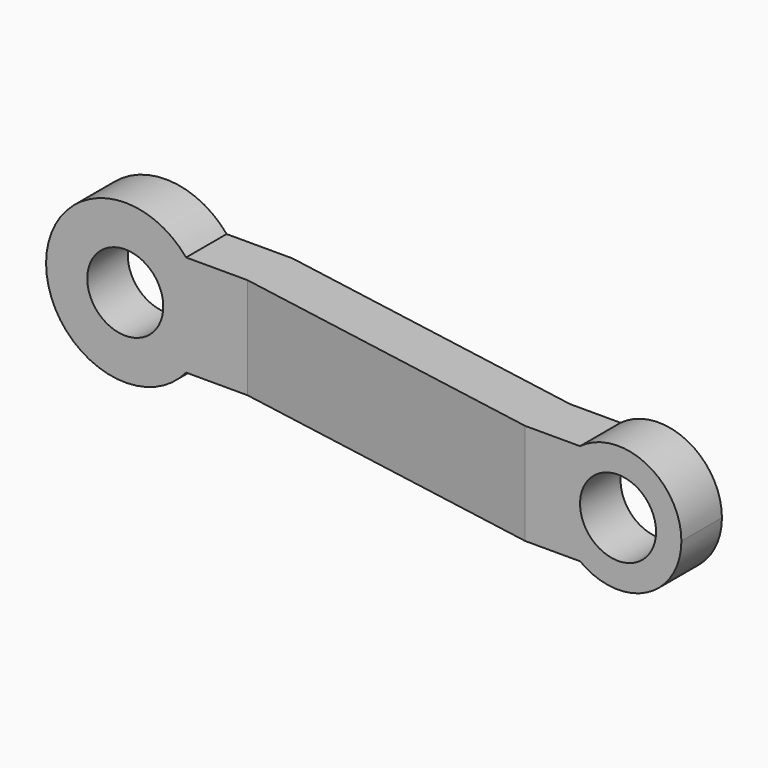
from build123d import *

# Parameters (mm, degrees)
F0_R     = 6
F1_DEPTH = 25
F3_DEPTH = 12.5


with BuildPart() as f1:
    # F0 (on Front) → F1 (new body)
    with BuildSketch(Plane.XZ):
        with BuildLine():
            ThreePointArc((9.604686, -8), (11.753905, -4.253905), (12.5, 0))
            ThreePointArc((12.5, 0), (11.753905, 4.253905), (9.604686, 8))
            ThreePointArc((9.604686, 8), (-12.5, 0), (9.604686, -8))
        make_face()
        Circle(F0_R, mode=Mode.SUBTRACT)
        with BuildLine():
            ThreePointArc((9.604686, 8), (11.753905, 4.253905), (12.5, 0))
            ThreePointArc((12.5, 0), (11.753905, -4.253905), (9.604686, -8))
            Line((9.604686, -8), (79, -8))
            ThreePointArc((79, -8), (75, 0), (79, 8))
            Line((79, 8), (9.604686, 8))
        make_face()
        with BuildLine():
            ThreePointArc((95, 0), (89.472136, 8.944272), (79, 8))
            ThreePointArc((79, 8), (75, 0), (79, -8))
            ThreePointArc((79, -8), (89.472136, -8.944272), (95, 0))
        make_face()
        with Locations((85, 0)):
            Circle(F0_R, mode=Mode.SUBTRACT)
    extrude(amount=F1_DEPTH)

    # F2 (on Top) → F3 (intersect, symmetric)
    with BuildSketch(Plane.XY):
        Polygon((20, 0), (0, 0), (-12.5, 0), (-12.5, -8), (0, -8), (19.300091, -8), (70.341627, -17), (95, -17), (95, -9), (71.041536, -9), align=None)
    extrude(amount=F3_DEPTH, both=True, mode=Mode.INTERSECT)


solid = f1.part
